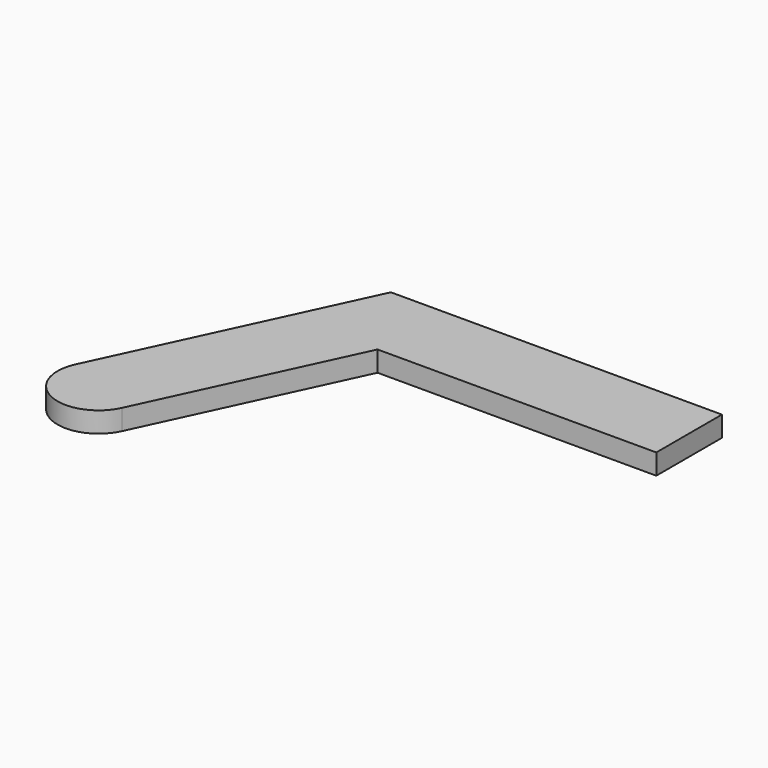
from build123d import *

# Parameters (mm, degrees)
F1_DEPTH = 10


with BuildPart() as f1:
    # F0 (on Top) → F1 (new body)
    with BuildSketch(Plane.XY):
        with BuildLine():
            Line((38.552437, 130), (-18.126156, 8.452365))
            ThreePointArc((-18.126156, 8.452365), (-8.452365, -18.126156), (18.126156, -8.452365))
            Line((18.126156, -8.452365), (64.035248, 90))
            Line((64.035248, 90), (200, 90))
            Line((200, 90), (200, 130))
            Line((200, 130), (38.552437, 130))
        make_face()
    extrude(amount=F1_DEPTH)


solid = f1.part
